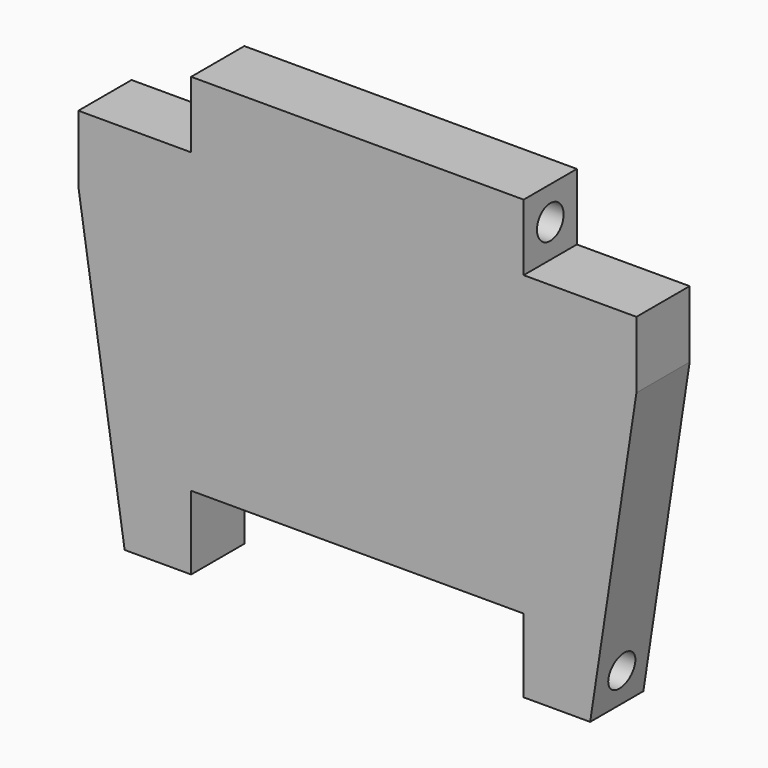
from build123d import *

# Parameters (mm, degrees)
F1_DEPTH = 5
F2_R     = 1.254284
F3_DEPTH = 25
F4_R     = 1.25
F5_DEPTH = 25


with BuildPart() as f1:
    # F0 (on Front) → F1 (new body)
    with BuildSketch(Plane.XZ):
        Polygon((-12.037362, -37.981261), (-12.037362, -32.436818), (12.962638, -32.436818), (12.962638, -37.981261), (17.962638, -37.981261), (21.440424, -15.064236), (21.440424, -10.040002), (12.962638, -10.040002), (12.962638, -5.040002), (-12.037362, -5.040002), (-12.037362, -10.040002), (-20.515148, -10.040002), (-20.515148, -15.064236), (-17.037362, -37.981261), align=None)
    extrude(amount=F1_DEPTH)

    # F2 (on face) → F3 (cut)
    with BuildSketch(Plane(origin=(12.962638, 0, 0), x_dir=(0, -1, 0), z_dir=(-1, 0, 0))):
        with Locations((2.5, -35.481261)):
            Circle(F2_R)
    extrude(amount=-F3_DEPTH, mode=Mode.SUBTRACT)

    # F4 (on face) → F5 (cut)
    with BuildSketch(Plane.YZ.offset(12.962638)):
        with Locations((-2.5, -7.540002)):
            Circle(F4_R)
    extrude(amount=-F5_DEPTH, mode=Mode.SUBTRACT)


solid = f1.part
